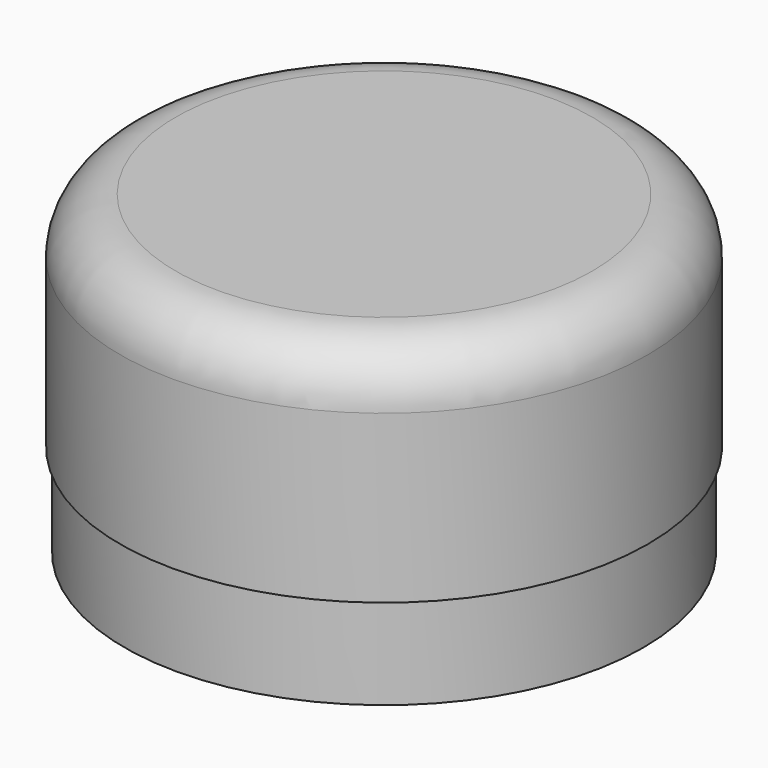
from build123d import *

# Parameters (mm, degrees)
F1_R     = 18.0975
F2_DEPTH = 15.24
F3_R     = 3.81
F5_T     = -1.905
F4_R     = 17.78
F6_DEPTH = 6.35


with BuildPart() as f2:
    # F1 (on offset) → F2 (new body)
    with BuildSketch(Plane.XY.offset(6.35)):
        Circle(F1_R)
    extrude(amount=F2_DEPTH)

    # F3
    f3_edges = [f2.edges().sort_by_distance(p)[0] for p in [
        (-18.0975, 0, 21.59),
    ]]
    fillet(f3_edges, radius=F3_R)

    # F5
    f5_openings = [f2.faces().sort_by_distance(p)[0] for p in [
        (0, 0, 6.35),
    ]]
    offset(amount=F5_T, openings=f5_openings)

    # F4 (on Top) → F6 (join)
    with BuildSketch(Plane.XY):
        Circle(F4_R)
    extrude(amount=F6_DEPTH)


solid = f2.part
